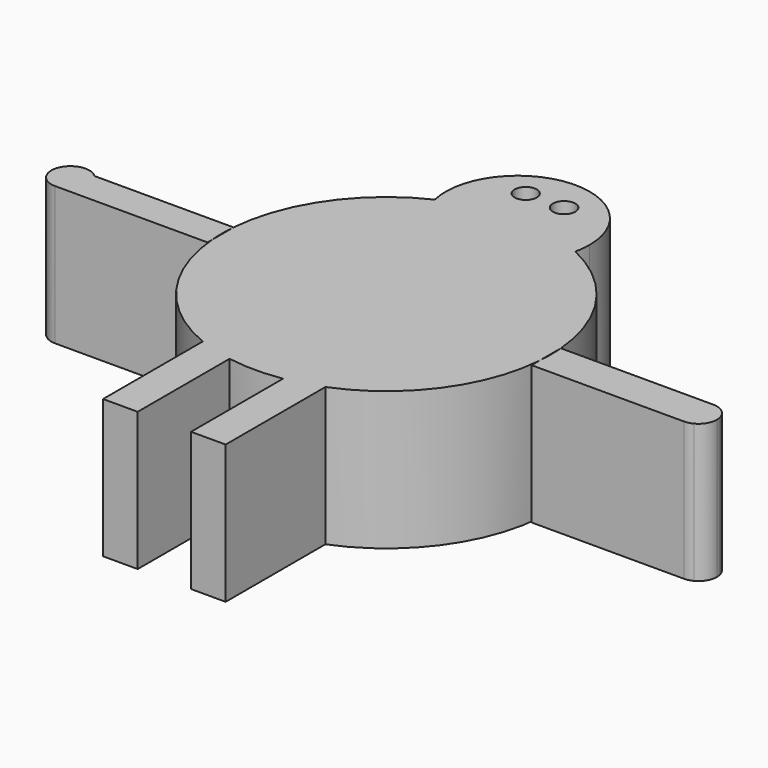
from build123d import *

# Parameters (mm, degrees)
F0_R     = 2.0202110332
F0_R_2   = 2.0499950134
F1_DEPTH = 25.4


with BuildPart() as f1:
    # F0 (on Top) → F1 (new body)
    with BuildSketch(Plane.XY):
        with BuildLine():
            Line((30.018958472, -2.4845898661), (30.018958472, 2.4845898661))
            ThreePointArc((30.018958472, 2.4845898661), (24.7651066101, 17.1464442126), (12.8902128264, 27.2241339226))
            ThreePointArc((12.8902128264, 27.2241339226), (0, 16.9097566534), (-12.8902128264, 27.2241339226))
            ThreePointArc((-12.8902128264, 27.2241339226), (-24.7651066101, 17.1464442126), (-30.018958472, 2.4845898661))
            Line((-30.018958472, 2.4845898661), (-30.018958472, -2.4845898661))
            ThreePointArc((-30.018958472, -2.4845898661), (-24.2771660117, -17.8305991202), (-11.3518982056, -27.9006355067))
            Line((-11.3518982056, -27.9006355067), (-5.0018982056, -27.9006355067))
            Line((-5.0018982056, -27.9006355067), (-5.0018982056, -29.7034016383))
            ThreePointArc((-5.0018982056, -29.7034016383), (-0.0836139515, -30.121488397), (4.836915615, -29.7307131075))
            Line((4.836915615, -29.7307131075), (4.836915615, -27.967194596))
            Line((4.836915615, -27.967194596), (11.186915615, -27.967194596))
            ThreePointArc((11.186915615, -27.967194596), (24.2244050654, -17.9022136556), (30.018958472, -2.4845898661))
        make_face()
        with BuildLine():
            ThreePointArc((5.6925358826, 29.5788115003), (9.3656694379, 28.6285747205), (12.8902128264, 27.2241339226))
            ThreePointArc((12.8902128264, 27.2241339226), (13.1311928641, 28.6639707066), (13.211847795, 30.1216044484))
            ThreePointArc((13.211847795, 30.1216044484), (-1.4576337418, 43.2527973125), (-12.8902128264, 27.2241339226))
            ThreePointArc((-12.8902128264, 27.2241339226), (-9.6523661982, 28.5331891194), (-6.2847596858, 29.4586634157))
            ThreePointArc((-6.2847596858, 29.4586634157), (-0.3021442517, 30.1200890337), (5.6925358826, 29.5788115003))
        make_face()
        with Locations((-3.9053533692, 36.8423350155)):
            Circle(F0_R, mode=Mode.SUBTRACT)
        with Locations((3.1302943826, 36.8423350155)):
            Circle(F0_R_2, mode=Mode.SUBTRACT)
        with BuildLine():
            ThreePointArc((-12.8902128264, 27.2241339226), (0, 16.9097566534), (12.8902128264, 27.2241339226))
            ThreePointArc((12.8902128264, 27.2241339226), (9.3656694379, 28.6285747205), (5.6925358826, 29.5788115003))
            ThreePointArc((5.6925358826, 29.5788115003), (-0.2317973528, 23.107363008), (-6.2847596858, 29.4586634157))
            ThreePointArc((-6.2847596858, 29.4586634157), (-9.6523661982, 28.5331891194), (-12.8902128264, 27.2241339226))
        make_face()
        with BuildLine():
            ThreePointArc((-6.2847596858, 29.4586634157), (-0.2317973528, 23.107363008), (5.6925358826, 29.5788115003))
            ThreePointArc((5.6925358826, 29.5788115003), (-0.3021442517, 30.1200890337), (-6.2847596858, 29.4586634157))
        make_face()
        with BuildLine():
            Line((-5.0018982056, -50.7606355067), (-5.0018982056, -29.7034016383))
            ThreePointArc((-5.0018982056, -29.7034016383), (-8.2264303131, -28.9764887253), (-11.3518982056, -27.9006355067))
            Line((-11.3518982056, -27.9006355067), (-11.3518982056, -50.7606355067))
            Line((-11.3518982056, -50.7606355067), (-5.0018982056, -50.7606355067))
        make_face()
        with BuildLine():
            Line((11.186915615, -50.827194596), (11.186915615, -27.967194596))
            ThreePointArc((11.186915615, -27.967194596), (8.0602910126, -29.0231418585), (4.836915615, -29.7307131075))
            Line((4.836915615, -29.7307131075), (4.836915615, -50.827194596))
            Line((4.836915615, -50.827194596), (11.186915615, -50.827194596))
        make_face()
        with BuildLine():
            ThreePointArc((4.836915615, -29.7307131075), (8.0602910126, -29.0231418585), (11.186915615, -27.967194596))
            Line((11.186915615, -27.967194596), (4.836915615, -27.967194596))
            Line((4.836915615, -27.967194596), (4.836915615, -29.7307131075))
        make_face()
        with BuildLine():
            ThreePointArc((-11.3518982056, -27.9006355067), (-8.2264303131, -28.9764887253), (-5.0018982056, -29.7034016383))
            Line((-5.0018982056, -29.7034016383), (-5.0018982056, -27.9006355067))
            Line((-5.0018982056, -27.9006355067), (-11.3518982056, -27.9006355067))
        make_face()
    extrude(amount=F1_DEPTH)


with BuildPart() as f1b:
    # F0 (on Top) → F1, piece 2 (new body)
    with BuildSketch(Plane.XY):
        with BuildLine():
            ThreePointArc((30.018958472, 2.4845898661), (30.0959320141, 1.2433546356), (30.1216044484, 0))
            ThreePointArc((30.1216044484, 0), (30.0959320141, -1.2433546356), (30.018958472, -2.4845898661))
            Line((30.018958472, -2.4845898661), (30.018958472, -4.2287655294))
            Line((30.018958472, -4.2287655294), (57.958958472, -4.2287655294))
            ThreePointArc((57.958958472, -4.2287655294), (54.6022807742, -0.8720878317), (57.958958472, 2.4845898661))
            Line((57.958958472, 2.4845898661), (30.018958472, 2.4845898661))
        make_face()
        with BuildLine():
            Line((57.958958472, -4.2287655294), (57.958958472, 2.4845898661))
            ThreePointArc((57.958958472, 2.4845898661), (54.6022807742, -0.8720878317), (57.958958472, -4.2287655294))
        make_face()
        with BuildLine():
            ThreePointArc((61.20036989, 0), (60.0010122656, 1.7919882691), (57.958958472, 2.4845898661))
            Line((57.958958472, 2.4845898661), (57.958958472, -4.2287655294))
            ThreePointArc((57.958958472, -4.2287655294), (58.7523715697, -4.1336489338), (59.5008195205, -3.8536896954))
            ThreePointArc((59.5008195205, -3.8536896954), (60.8262582262, -2.6173320226), (61.3156361698, -0.8720878317))
            ThreePointArc((61.3156361698, -0.8720878317), (61.2866948334, -0.4322516402), (61.20036989, 0))
        make_face()
    extrude(amount=F1_DEPTH)


with BuildPart() as f1c:
    # F0 (on Top) → F1, piece 3 (new body)
    with BuildSketch(Plane.XY):
        with BuildLine():
            ThreePointArc((-30.018958472, -2.4845898661), (-30.1216044484, 0), (-30.018958472, 2.4845898661))
            Line((-30.018958472, 2.4845898661), (-55.518731556, 2.4845898661))
            ThreePointArc((-55.518731556, 2.4845898661), (-54.7475712909, 1.3471772627), (-54.476445844, 0))
            ThreePointArc((-54.476445844, 0), (-55.4964501772, -2.4625082948), (-57.958958472, -3.482512628))
            Line((-57.958958472, -3.482512628), (-30.018958472, -3.482512628))
            Line((-30.018958472, -3.482512628), (-30.018958472, -2.4845898661))
        make_face()
        with BuildLine():
            Line((-57.958958472, -3.482512628), (-57.958958472, 2.4845898661))
            Line((-57.958958472, 2.4845898661), (-58.3947922396, 3.4551328674))
            ThreePointArc((-58.3947922396, 3.4551328674), (-60.5710161669, 2.3032691554), (-61.4414711, 0))
            ThreePointArc((-61.4414711, 0), (-60.4214667668, -2.4625082948), (-57.958958472, -3.482512628))
        make_face()
        with BuildLine():
            ThreePointArc((-54.476445844, 0), (-54.7475712909, 1.3471772627), (-55.518731556, 2.4845898661))
            Line((-55.518731556, 2.4845898661), (-57.958958472, 2.4845898661))
            Line((-57.958958472, 2.4845898661), (-57.958958472, -3.482512628))
            ThreePointArc((-57.958958472, -3.482512628), (-55.4964501772, -2.4625082948), (-54.476445844, 0))
        make_face()
        with BuildLine():
            Line((-57.958958472, 2.4845898661), (-55.518731556, 2.4845898661))
            ThreePointArc((-55.518731556, 2.4845898661), (-56.8454566073, 3.2996981379), (-58.3947922396, 3.4551328674))
            Line((-58.3947922396, 3.4551328674), (-57.958958472, 2.4845898661))
        make_face()
    extrude(amount=F1_DEPTH)


solid = Compound([f1.part, f1b.part, f1c.part])
